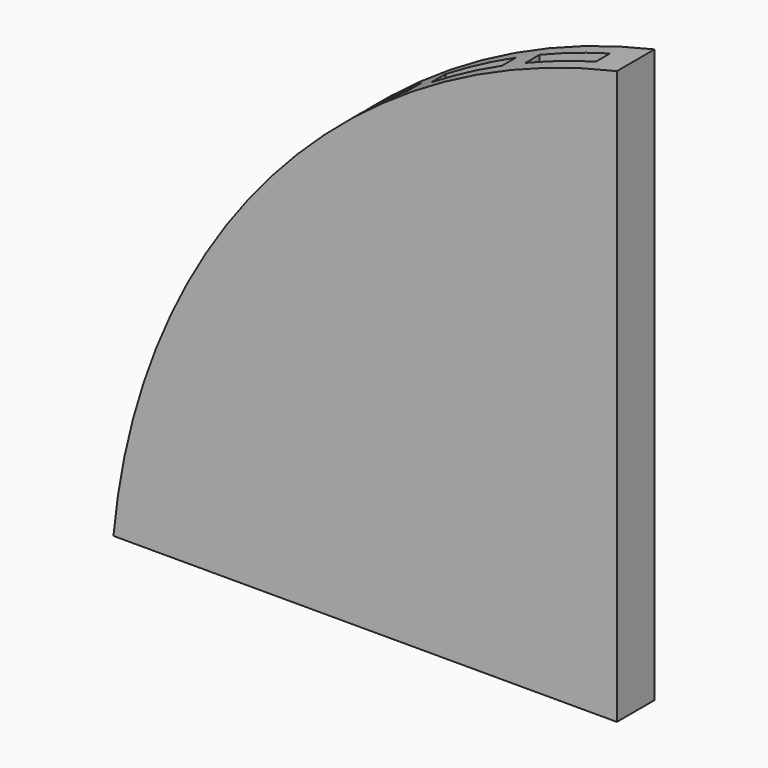
from build123d import *

# Parameters (mm, degrees)
F1_DEPTH = 2
F2_W     = 3
F2_H     = 0.75
F3_DEPTH = 25


with BuildPart() as f1:
    # F0 (on Front) → F1 (new body)
    with BuildSketch(Plane.XZ):
        with BuildLine():
            Line((-6, 2.5), (-6, 26.837474))
            ThreePointArc((-6, 26.837474), (-20.657603, 18.152506), (-27.386128, 2.5))
            Line((-27.386128, 2.5), (-6, 2.5))
        make_face()
    extrude(amount=F1_DEPTH)

    # F2 (on face) → F3 (cut)
    with BuildSketch(Plane(origin=(0, 0, 2.5), x_dir=(1, 0, 0), z_dir=(0, 0, -1))):
        with Locations((-24.886128, 1)):
            Rectangle(F2_W, F2_H)
        with Locations((-20.886128, 1)):
            Rectangle(F2_W, F2_H)
        with Locations((-16.886128, 1)):
            Rectangle(F2_W, F2_H)
        with Locations((-12.886128, 1)):
            Rectangle(F2_W, F2_H)
        with Locations((-8.886128, 1)):
            Rectangle(F2_W, F2_H)
    extrude(amount=-F3_DEPTH, mode=Mode.SUBTRACT)


solid = f1.part
